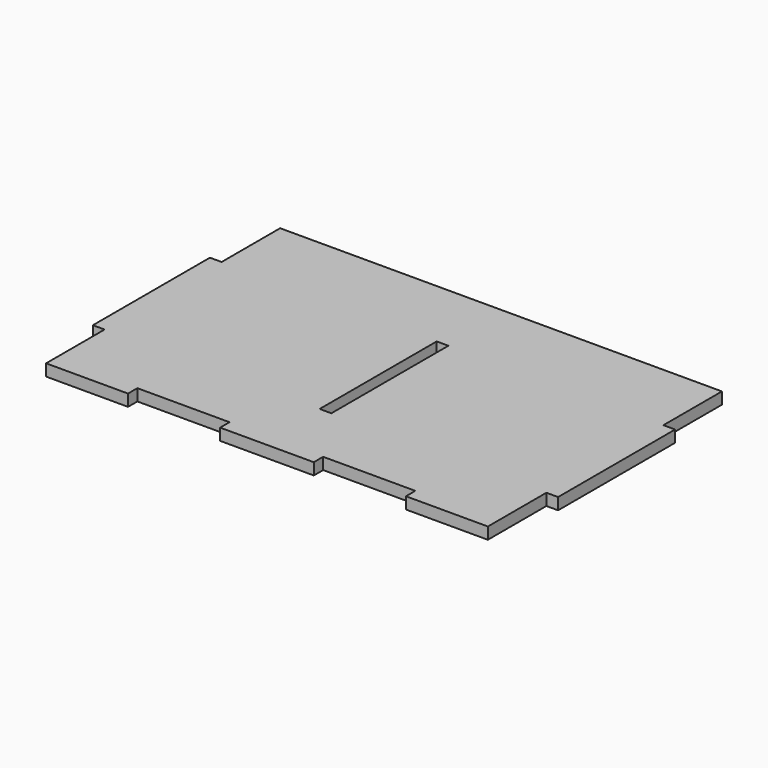
from build123d import *

# Parameters (mm, degrees)
F0_W     = 159
F0_H     = 100
F1_DEPTH = 4
F2_W     = 31.5
F2_H     = 4
F3_DEPTH = 4
F4_W     = 4
F4_H     = 25
F5_DEPTH = 4
F6_W     = 4
F6_H     = 50
F7_DEPTH = 4


with BuildPart() as f1:
    # F0 (on Top) → F1 (new body)
    with BuildSketch(Plane.XY):
        with Locations((79.5, 50)):
            Rectangle(F0_W, F0_H)
    extrude(amount=F1_DEPTH)

    # F2 (on face) → F3 (cut, through all)
    with BuildSketch(Plane.XY.offset(4)):
        with Locations((47.75, 2)):
            Rectangle(F2_W, F2_H)
        with Locations((111.25, 2)):
            Rectangle(F2_W, F2_H)
    extrude(amount=-F3_DEPTH, mode=Mode.SUBTRACT)

    # F4 (on face) → F5 (cut, through all)
    with BuildSketch(Plane.XY.offset(4)):
        with Locations((157, 12.5)):
            Rectangle(F4_W, F4_H)
        with Locations((157, 87.5)):
            Rectangle(F4_W, F4_H)
        with Locations((2, 87.5)):
            Rectangle(F4_W, F4_H)
        with Locations((2, 12.5)):
            Rectangle(F4_W, F4_H)
    extrude(amount=-F5_DEPTH, mode=Mode.SUBTRACT)

    # F6 (on face) → F7 (cut, through all)
    with BuildSketch(Plane.XY.offset(4)):
        with Locations((79.5, 50)):
            Rectangle(F6_W, F6_H)
    extrude(amount=-F7_DEPTH, mode=Mode.SUBTRACT)


solid = f1.part
